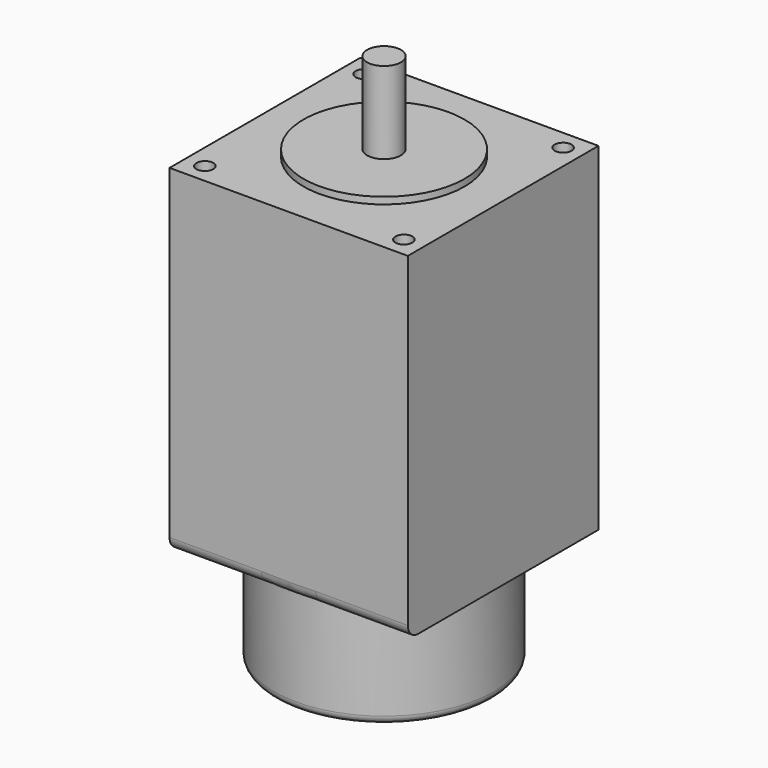
from build123d import *

# Parameters (mm, degrees)
F0_W     = 56.4
F0_H     = 56.4
F1_DEPTH = 80
F2_R     = 19.05
F3_DEPTH = 1.6
F4_R     = 4
F5_DEPTH = 19.4
F6_R     = 2
F7_DEPTH = 25
F8_R     = 26
F9_DEPTH = 25
F10_R    = 3
F11_R    = 2


with BuildPart() as f1:
    # F0 (on Top) → F1 (new body)
    with BuildSketch(Plane.XY):
        Rectangle(F0_W, F0_H)
    extrude(amount=F1_DEPTH)

    # F2 (on face) → F3 (join)
    with BuildSketch(Plane.XY.offset(80)):
        Circle(F2_R)
    extrude(amount=F3_DEPTH)

    # F4 (on face) → F5 (join)
    with BuildSketch(Plane.XY.offset(81.6)):
        Circle(F4_R)
    extrude(amount=F5_DEPTH)

    # F6 (on face) → F7 (cut)
    with BuildSketch(Plane.XY.offset(80)):
        with Locations((23.55, 23.55)):
            Circle(F6_R)
        with Locations((-23.55, 23.55)):
            Circle(F6_R)
        with Locations((-23.55, -23.55)):
            Circle(F6_R)
        with Locations((23.55, -23.55)):
            Circle(F6_R)
    extrude(amount=-F7_DEPTH, mode=Mode.SUBTRACT)

    # F8 (on face) → F9 (join)
    with BuildSketch(Plane(origin=(0, 0, 0), x_dir=(1, 0, 0), z_dir=(0, 0, -1))):
        Circle(F8_R)
    extrude(amount=F9_DEPTH)

    # F10
    f10_edges = [f1.edges().sort_by_distance(p)[0] for p in [
        (0, -28.2, 0),
    ]]
    fillet(f10_edges, radius=F10_R)

    # F11
    f11_edges = [f1.edges().sort_by_distance(p)[0] for p in [
        (-26, 0, -25),
    ]]
    fillet(f11_edges, radius=F11_R)


solid = f1.part
